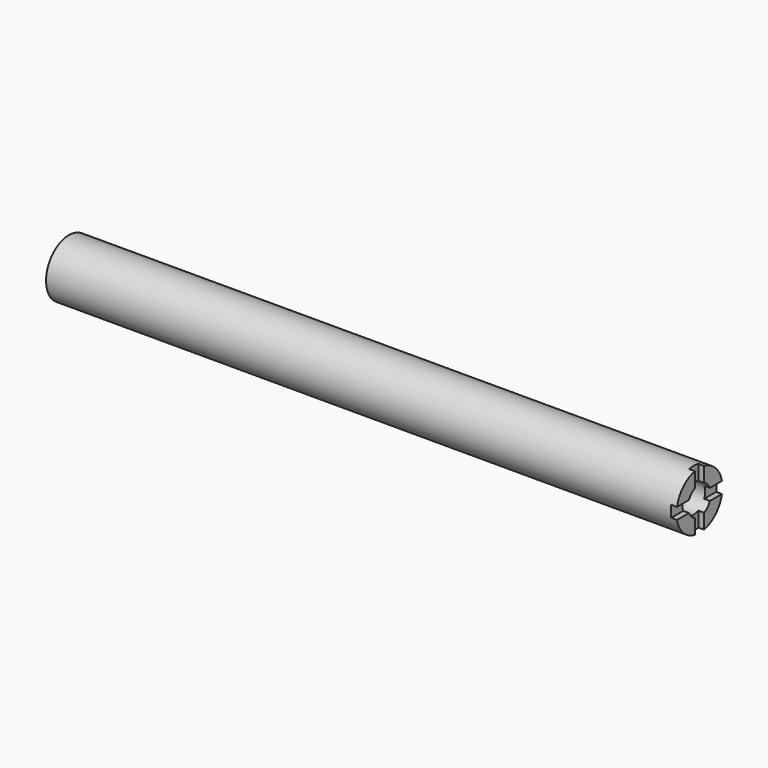
from build123d import *

# Parameters (mm, degrees)
F0_R     = 12.7
F1_DEPTH = 279.4
F2_R     = 6.35
F3_DEPTH = 19.05
F5_DEPTH = 2.54


with BuildPart() as f1:
    # F0 (on Right) → F1 (new body)
    with BuildSketch(Plane.YZ):
        Circle(F0_R)
    extrude(amount=F1_DEPTH)

    # F2 (on face) → F3 (cut)
    with BuildSketch(Plane.YZ.offset(279.4)):
        Circle(F2_R)
    extrude(amount=-F3_DEPTH, mode=Mode.SUBTRACT)

    # F4 (on face) → F5 (cut)
    with BuildSketch(Plane.YZ.offset(279.4)):
        with BuildLine():
            ThreePointArc((2.54, 12.4434078933), (1.2764638175, 12.6356891432), (0, 12.7))
            ThreePointArc((0, 12.7), (-1.2764638175, 12.6356891432), (-2.54, 12.4434078933))
            Line((-2.54, 12.4434078933), (-2.54, 5.8198711326))
            ThreePointArc((-2.54, 5.8198711326), (0, 6.35), (2.54, 5.8198711326))
            Line((2.54, 5.8198711326), (2.54, 12.4434078933))
        make_face()
        with BuildLine():
            Line((-5.8198711326, 2.54), (-12.4434078933, 2.54))
            ThreePointArc((-12.4434078933, 2.54), (-12.6356891432, 1.2764638175), (-12.7, 0))
            ThreePointArc((-12.7, 0), (-12.6356891432, -1.2764638175), (-12.4434078933, -2.54))
            Line((-12.4434078933, -2.54), (-5.8198711326, -2.54))
            ThreePointArc((-5.8198711326, -2.54), (-6.35, 0), (-5.8198711326, 2.54))
        make_face()
        with BuildLine():
            ThreePointArc((2.54, -5.8198711326), (0, -6.35), (-2.54, -5.8198711326))
            Line((-2.54, -5.8198711326), (-2.54, -12.4434078933))
            ThreePointArc((-2.54, -12.4434078933), (0, -12.7), (2.54, -12.4434078933))
            Line((2.54, -12.4434078933), (2.54, -5.8198711326))
        make_face()
        with BuildLine():
            ThreePointArc((12.7, 0), (12.6356891432, 1.2764638175), (12.4434078933, 2.54))
            Line((12.4434078933, 2.54), (5.8198711326, 2.54))
            ThreePointArc((5.8198711326, 2.54), (6.2160550871, 1.2973662374), (6.35, 0))
            ThreePointArc((6.35, 0), (6.2160550871, -1.2973662374), (5.8198711326, -2.54))
            Line((5.8198711326, -2.54), (12.4434078933, -2.54))
            ThreePointArc((12.4434078933, -2.54), (12.6356891432, -1.2764638175), (12.7, 0))
        make_face()
        with BuildLine():
            Line((5.8198711326, 2.54), (2.54, 2.54))
            Line((2.54, 2.54), (2.54, -2.54))
            Line((2.54, -2.54), (5.8198711326, -2.54))
            ThreePointArc((5.8198711326, -2.54), (6.2160550871, -1.2973662374), (6.35, 0))
            ThreePointArc((6.35, 0), (6.2160550871, 1.2973662374), (5.8198711326, 2.54))
        make_face()
        with BuildLine():
            Line((-2.54, -2.54), (-2.54, 2.54))
            Line((-2.54, 2.54), (-5.8198711326, 2.54))
            ThreePointArc((-5.8198711326, 2.54), (-6.35, 0), (-5.8198711326, -2.54))
            Line((-5.8198711326, -2.54), (-2.54, -2.54))
        make_face()
        with BuildLine():
            ThreePointArc((2.54, 5.8198711326), (0, 6.35), (-2.54, 5.8198711326))
            Line((-2.54, 5.8198711326), (-2.54, 2.54))
            Line((-2.54, 2.54), (2.54, 2.54))
            Line((2.54, 2.54), (2.54, 5.8198711326))
        make_face()
        with BuildLine():
            Line((2.54, -2.54), (-2.54, -2.54))
            Line((-2.54, -2.54), (-2.54, -5.8198711326))
            ThreePointArc((-2.54, -5.8198711326), (0, -6.35), (2.54, -5.8198711326))
            Line((2.54, -5.8198711326), (2.54, -2.54))
        make_face()
    extrude(amount=-F5_DEPTH, mode=Mode.SUBTRACT)


solid = f1.part
